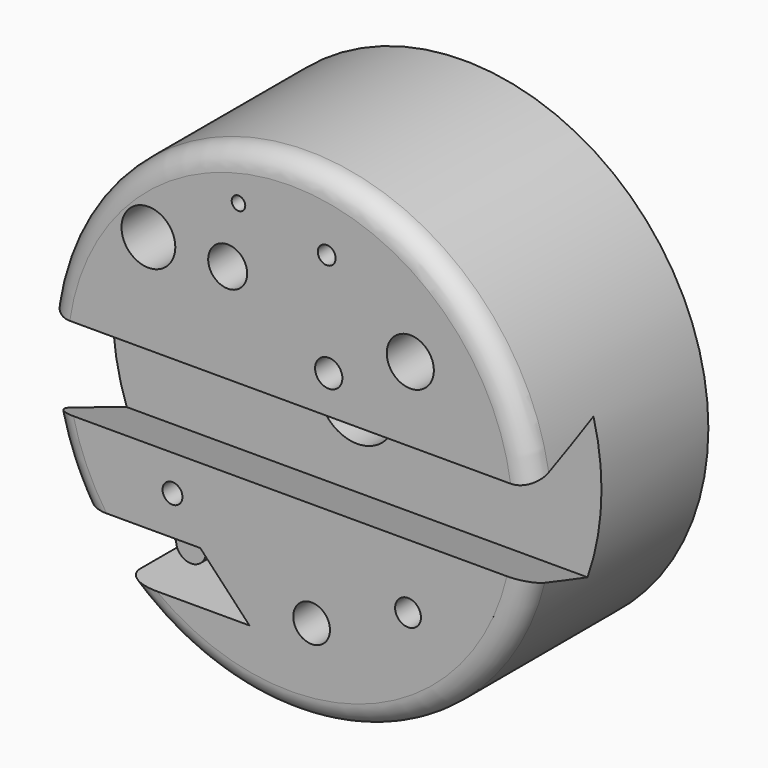
from build123d import *

# Parameters (mm, degrees)
F0_R      = 57.15
F1_DEPTH  = 50.8
F3_DEPTH  = 19.558
F3_TAPER  = -20
F4_R      = 6.2936764169
F4_R_2    = 4.5582731786
F4_R_3    = 3.0215351301
F4_R_4    = 4.2985160405
F4_R_5    = 2.3322780101
F4_R_6    = 3.1916024355
F4_R_7    = 2.0879014362
F4_R_8    = 5.5078897411
F4_R_9    = 1.5847885442
F5_DEPTH  = 16.51
F6_R      = 3.5004361301
F7_DEPTH  = 8.89
F8_R      = 5.08
F9_R      = 5.08
F10_R     = 5.08
F11_R     = 9.1016628177
F12_DEPTH = 31.2430001


with BuildPart() as f1:
    # F0 (on Front) → F1 (new body)
    with BuildSketch(Plane.XZ):
        Circle(F0_R)
    extrude(amount=F1_DEPTH)

    # F2 (on face) → F3 (cut)
    with BuildSketch(Plane.XZ.offset(50.8)):
        with BuildLine():
            Line((56.6691125389, 7.398255474), (-56.6691125389, 7.398255474))
            ThreePointArc((-56.6691125389, 7.398255474), (-57.103483703, -2.3053522456), (-55.8883030293, -11.9423651134))
            Line((-55.8883030293, -11.9423651134), (55.8883030293, -11.9423651134))
            ThreePointArc((55.8883030293, -11.9423651134), (56.8337004696, -6.0044142876), (57.15, 0))
            ThreePointArc((57.15, 0), (57.0296514175, 3.7069339355), (56.6691125389, 7.398255474))
        make_face()
    extrude(amount=-F3_DEPTH, taper=F3_TAPER, mode=Mode.SUBTRACT)

    # F4 (on face) → F5 (cut)
    with BuildSketch(Plane.XZ.offset(50.8)):
        with Locations((-33.159788698, 30.5929593742)):
            Circle(F4_R)
        with Locations((-14.6182132885, 30.5929593742)):
            Circle(F4_R_2)
        with Locations((27.5545194745, -26.9502550364)):
            Circle(F4_R_3)
        with Locations((5.0058867782, -36.4746116102)):
            Circle(F4_R_4)
        with Locations((-27.5286901742, -20.31073533)):
            Circle(F4_R_5)
        with Locations((9.0075330809, 16.3046922535)):
            Circle(F4_R_6)
        with Locations((8.5346112028, 40.4698885977)):
            Circle(F4_R_7)
        with Locations((28.0849561095, 24.853952229)):
            Circle(F4_R_8)
        Polygon((-9.5280949026, -41.6518002748), (-21.0372693837, -29.4488035142), (-54.37650159, -29.4488035142), (-54.37650159, -41.6518002748), align=None)
        with Locations((-12.0945619419, 44.4322191179)):
            Circle(F4_R_9)
    extrude(amount=-F5_DEPTH, mode=Mode.SUBTRACT)

    # F6 (on face) → F7 (join)
    with BuildSketch(Plane.XZ.offset(34.29)):
        with Locations((-29.2805414647, -34.9123850465)):
            Circle(F6_R)
    extrude(amount=F7_DEPTH)

    # F8
    f8_edges = [f1.edges().sort_by_distance(p)[0] for p in [
        (17.054702, -50.8, -54.545941),
    ]]
    fillet(f8_edges, radius=F8_R)

    # F9
    f9_edges = [f1.edges().sort_by_distance(p)[0] for p in [
        (0, -50.8, 57.15),
    ]]
    fillet(f9_edges, radius=F9_R)

    # F10
    f10_edges = [f1.edges().sort_by_distance(p)[0] for p in [
        (-53.158996, -50.8, -20.981984),
    ]]
    fillet(f10_edges, radius=F10_R)

    # F11 (on face) → F12 (cut, through all)
    with BuildSketch(Plane.XZ.offset(31.242)):
        Circle(F11_R)
    extrude(amount=-F12_DEPTH, mode=Mode.SUBTRACT)


solid = f1.part
